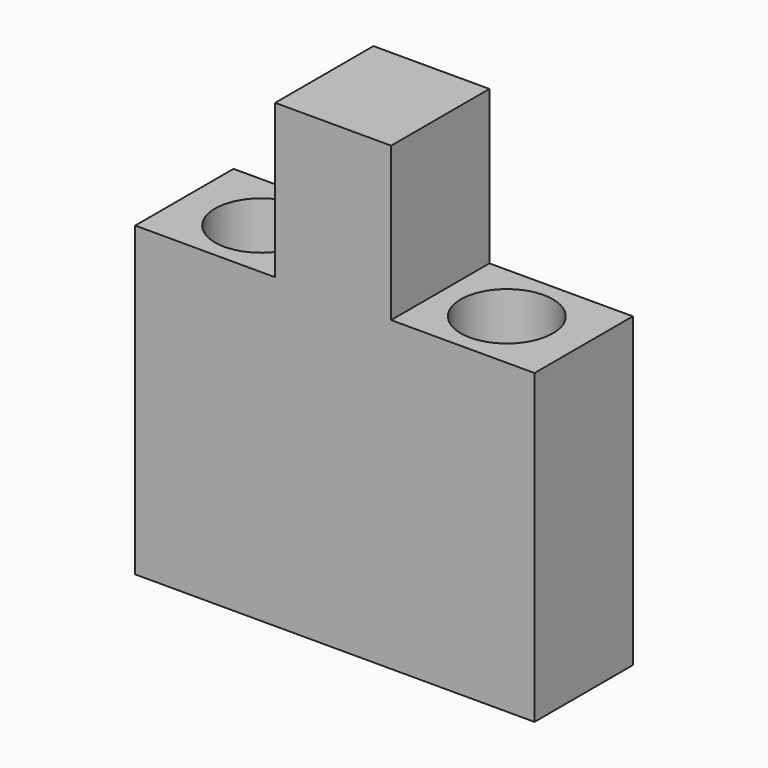
from build123d import *

# Parameters (mm, degrees)
F0_W     = 13
F0_H     = 4
F0_R     = 1.5
F1_DEPTH = 10
F2_W     = 3.775453
F2_H     = 4
F3_DEPTH = 5


with BuildPart() as f1:
    # F0 (on Top) → F1 (new body)
    with BuildSketch(Plane.XY):
        with Locations((6.5, 2)):
            Rectangle(F0_W, F0_H)
        with Locations((2.5, 2)):
            Circle(F0_R, mode=Mode.SUBTRACT)
        with Locations((10.5, 2)):
            Circle(F0_R, mode=Mode.SUBTRACT)
    extrude(amount=F1_DEPTH)

    # F2 (on face) → F3 (join)
    with BuildSketch(Plane.XY.offset(10)):
        with Locations((6.444774, 2)):
            Rectangle(F2_W, F2_H)
    extrude(amount=F3_DEPTH)


solid = f1.part
